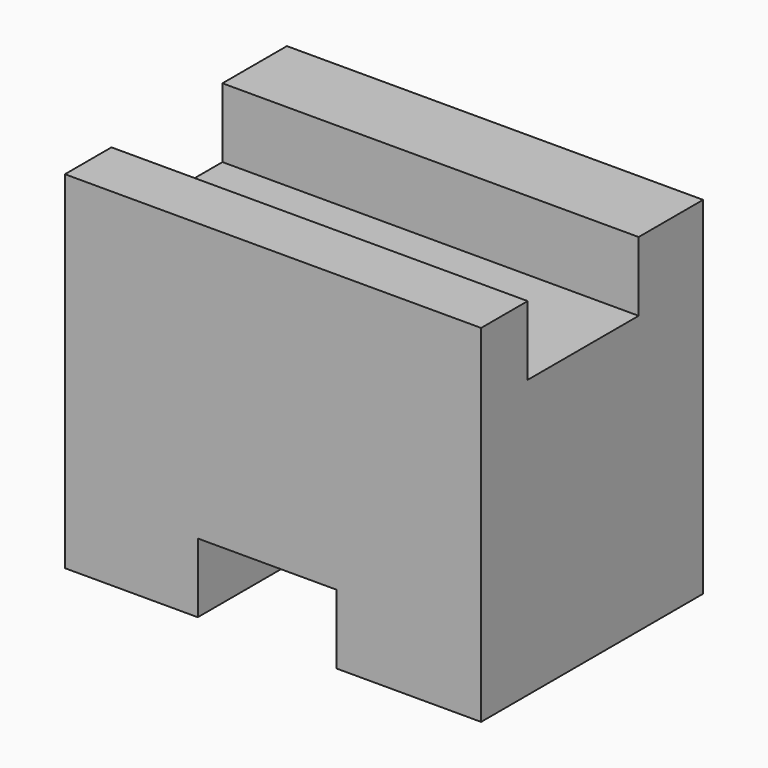
from build123d import *

# Parameters (mm, degrees)
F0_W     = 25.4
F0_H     = 31.75
F1_DEPTH = 38.1
F2_W     = 12.7
F2_H     = 6.35
F3_DEPTH = 38.1
F4_W     = 12.7
F4_H     = 6.35
F5_DEPTH = 38.1


with BuildPart() as f1:
    # F0 (on Right) → F1 (new body)
    with BuildSketch(Plane.YZ):
        with Locations((12.7, 15.875)):
            Rectangle(F0_W, F0_H)
    extrude(amount=F1_DEPTH)

    # F2 (on face) → F3 (cut)
    with BuildSketch(Plane.YZ.offset(38.1)):
        with Locations((11.6773, 28.575)):
            Rectangle(F2_W, F2_H)
    extrude(amount=-F3_DEPTH, mode=Mode.SUBTRACT)

    # F4 (on face) → F5 (cut)
    with BuildSketch(Plane.XZ):
        with Locations((18.512323, 3.175)):
            Rectangle(F4_W, F4_H)
    extrude(amount=-F5_DEPTH, mode=Mode.SUBTRACT)


solid = f1.part
